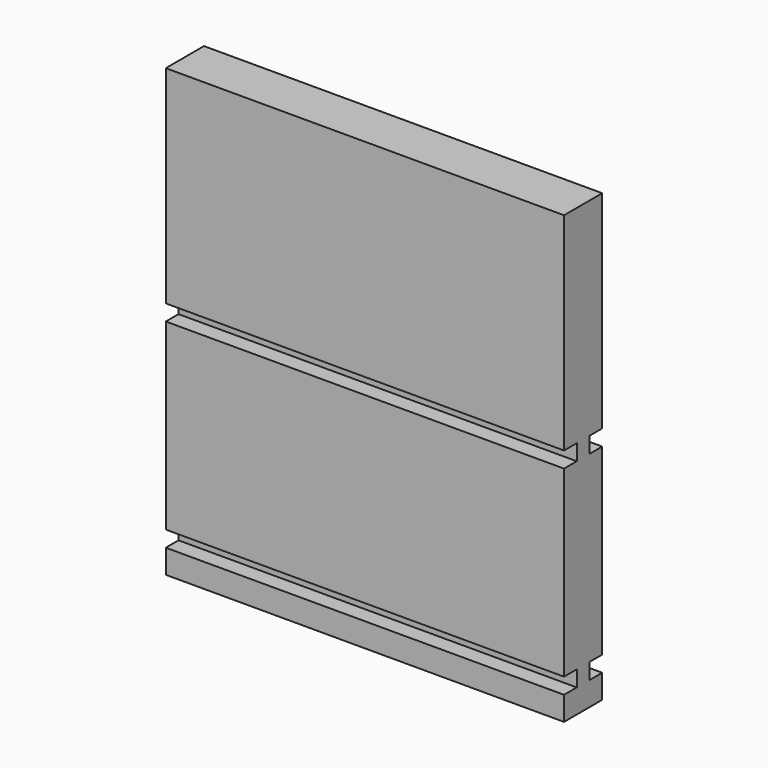
from build123d import *

# Parameters (mm, degrees)
SKETCH_W        = 150
SKETCH_H        = 168
PAD_DEPTH       = 18
SKETCH001_W     = 150
SKETCH001_H     = 6
POCKET_DEPTH    = 6
SKETCH002_W     = 150
SKETCH002_H     = 6
POCKET001_DEPTH = 6


with BuildPart() as part:
    # Sketch → Pad (new body)
    with BuildSketch(Plane.XZ):
        with Locations((-75, 84)):
            Rectangle(SKETCH_W, SKETCH_H)
    extrude(amount=PAD_DEPTH)

    # Sketch001 (on Face6 of Pad) → Pocket (cut)
    with BuildSketch(Plane.XZ.offset(18)):
        with Locations((-75, 12)):
            Rectangle(SKETCH001_W, SKETCH001_H)
        with Locations((-75, 87)):
            Rectangle(SKETCH001_W, SKETCH001_H)
    extrude(amount=-POCKET_DEPTH, mode=Mode.SUBTRACT)

    # Sketch002 (on Face4 of Pocket) → Pocket001 (cut)
    with BuildSketch(Plane(origin=(0, 0, 0), x_dir=(1, 0, 0), z_dir=(0, 1, 0))):
        with Locations((-75, -12)):
            Rectangle(SKETCH002_W, SKETCH002_H)
        with Locations((-75, -87)):
            Rectangle(SKETCH002_W, SKETCH002_H)
    extrude(amount=-POCKET001_DEPTH, mode=Mode.SUBTRACT)


solid = part.part
